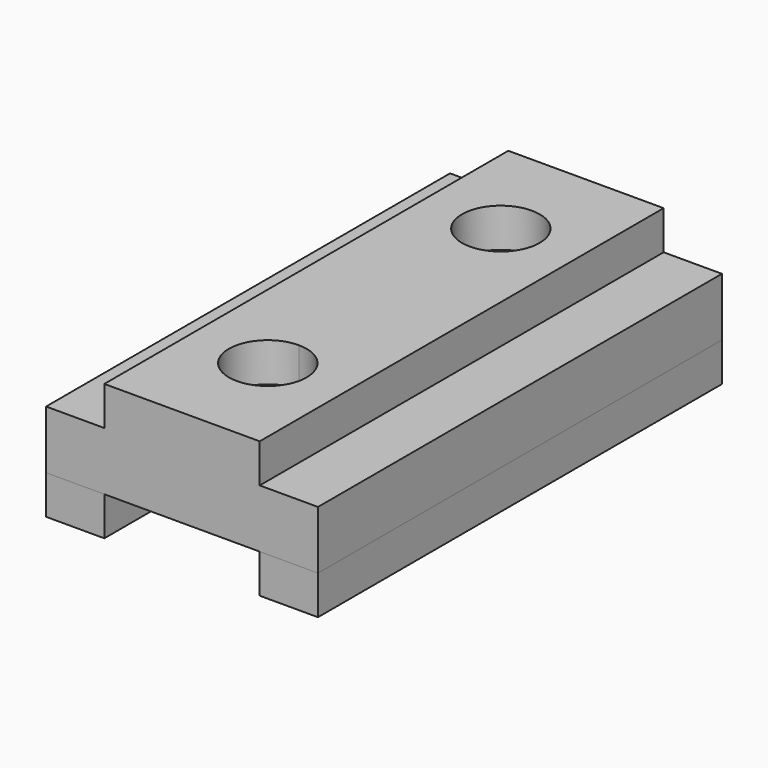
from build123d import *

# Parameters (mm, degrees)
F0_W     = 19.05
F0_H     = 165.1
F1_DEPTH = 12.7
F2_W     = 69.85
F2_H     = 165.1
F2_W_2   = 19.05
F3_DEPTH = 19.05
F4_W     = 50.8
F4_H     = 165.1
F5_DEPTH = 12.7
F7_DEPTH = 12.7


with BuildPart() as f1:
    # F0 (on Top) → F1 (new body)
    with BuildSketch(Plane.XY):
        with Locations((-48.844324, 17.425585)):
            Rectangle(F0_W, F0_H)
        with Locations((21.005676, 17.425585)):
            Rectangle(F0_W, F0_H)
    extrude(amount=F1_DEPTH)


with BuildPart() as f3:
    # F2 (on face) → F3 (new body)
    with BuildSketch(Plane.XY.offset(12.7)):
        with Locations((-23.444324, 17.425585)):
            Rectangle(F2_W, F2_H)
        with Locations((21.005676, 17.425585)):
            Rectangle(F2_W_2, F2_H)
    extrude(amount=F3_DEPTH)

    # F4 (on face) → F5 (join)
    with BuildSketch(Plane.XY.offset(31.75)):
        with Locations((-13.919324, 17.425585)):
            Rectangle(F4_W, F4_H)
    extrude(amount=F5_DEPTH)

    # F6 (on face) → F7 (cut)
    with BuildSketch(Plane.XY.offset(44.45)):
        with BuildLine():
            Line((-13.919324, -30.072415), (-13.919324, -42.772415))
            ThreePointArc((-13.919324, -42.772415), (-4.939068, -39.052671), (-1.219324, -30.072415))
            ThreePointArc((-1.219324, -30.072415), (-4.939068, -21.092159), (-13.919324, -17.372415))
            Line((-13.919324, -17.372415), (-13.919324, -30.072415))
        make_face()
        with BuildLine():
            ThreePointArc((-13.919324, -17.372415), (-26.619324, -30.072415), (-13.919324, -42.772415))
            Line((-13.919324, -42.772415), (-13.919324, -30.072415))
            Line((-13.919324, -30.072415), (-13.919324, -17.372415))
        make_face()
        with BuildLine():
            ThreePointArc((-1.219324, 65.177585), (-22.89958, 74.157841), (-13.919324, 52.477585))
            ThreePointArc((-13.919324, 52.477585), (-4.939068, 56.197329), (-1.219324, 65.177585))
        make_face()
    extrude(amount=-F7_DEPTH, mode=Mode.SUBTRACT)


solid = Compound([f1.part, f3.part])
